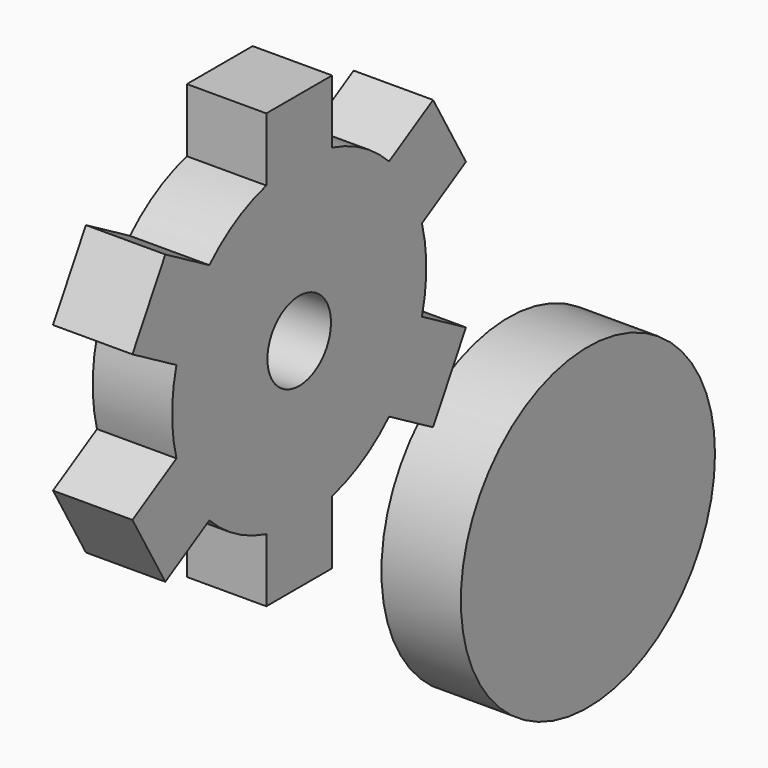
from build123d import *

# Parameters (mm, degrees)
F0_R     = 25.4
F1_DEPTH = 12.7
F3_DEPTH = 12.7
F5_COUNT = 6
F6_R     = 6.35
F7_DEPTH = 25.4
F8_R     = 25.4
F9_DEPTH = 12.7


with BuildPart() as f1:
    # F0 (on Right) → F1 (new body)
    with BuildSketch(Plane.YZ):
        Circle(F0_R)
    extrude(amount=F1_DEPTH)

    # F2 (on face) → F3 (join)
    with BuildSketch(Plane(origin=(0, 0, 0), x_dir=(0, -1, 0), z_dir=(-1, 0, 0))):
        Polygon((-6.574004, 24.534516), (0, 0), (0, 24.534516), align=None)
        Polygon((0, 24.534516), (0, 0), (6.574004, 24.534516), align=None)
        Polygon((-6.574004, 24.534516), (0, 24.534516), (6.574004, 24.534516), (6.574004, 34.694515), (-6.574004, 34.694515), align=None)
    extrude(amount=-F3_DEPTH)

    # F5: F1 ×6 about axis
    f5_axis = Axis((-28.345339, 0, 0), (-1, 0, 0))


with BuildPart() as f1_1:
    add(f1.part)
    for i in range(1, F5_COUNT):
        add(f1.part.rotate(f5_axis, i * 360 / F5_COUNT))

    # F6 (on face) → F7 (cut)
    with BuildSketch(Plane(origin=(0, 0, 0), x_dir=(0, -1, 0), z_dir=(-1, 0, 0))):
        Circle(F6_R)
    extrude(amount=-F7_DEPTH, mode=Mode.SUBTRACT)


with BuildPart() as f9:
    # F8 (on Right) → F9 (new body)
    with BuildSketch(Plane.YZ):
        with Locations((57.709835, -49.683958)):
            Circle(F8_R)
    extrude(amount=F9_DEPTH)


solid = Compound([f1_1.part, f9.part])
